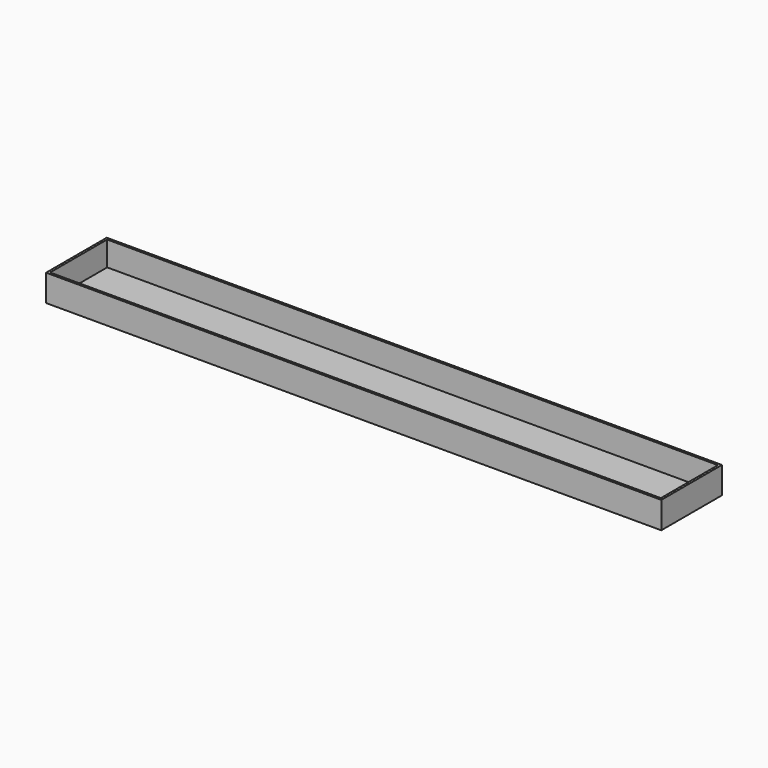
from build123d import *

# Parameters (mm, degrees)
BOX001_W     = 1370
BOX001_H     = 160
BOX001_DEPTH = 60
BOX_W        = 1380
BOX_H        = 170
BOX_DEPTH    = 60


with BuildPart() as box001:
    # Box001 → Box001 (new body)
    with BuildSketch(Plane(origin=(5, 5, 5), x_dir=(1, 0, 0), z_dir=(0, 0, 1))):
        with Locations((685, 80)):
            Rectangle(BOX001_W, BOX001_H)
    extrude(amount=BOX001_DEPTH)


with BuildPart() as trough:
    # Box → Box (new body)
    with BuildSketch(Plane.XY):
        with Locations((690, 85)):
            Rectangle(BOX_W, BOX_H)
    extrude(amount=BOX_DEPTH)

    # Cut: cut Box001
    add(box001.part, mode=Mode.SUBTRACT)


with BuildPart() as trough_1:
    # Cut placement: moved
    add(trough.part.moved(Location((66, 0, 0))))


solid = trough_1.part
